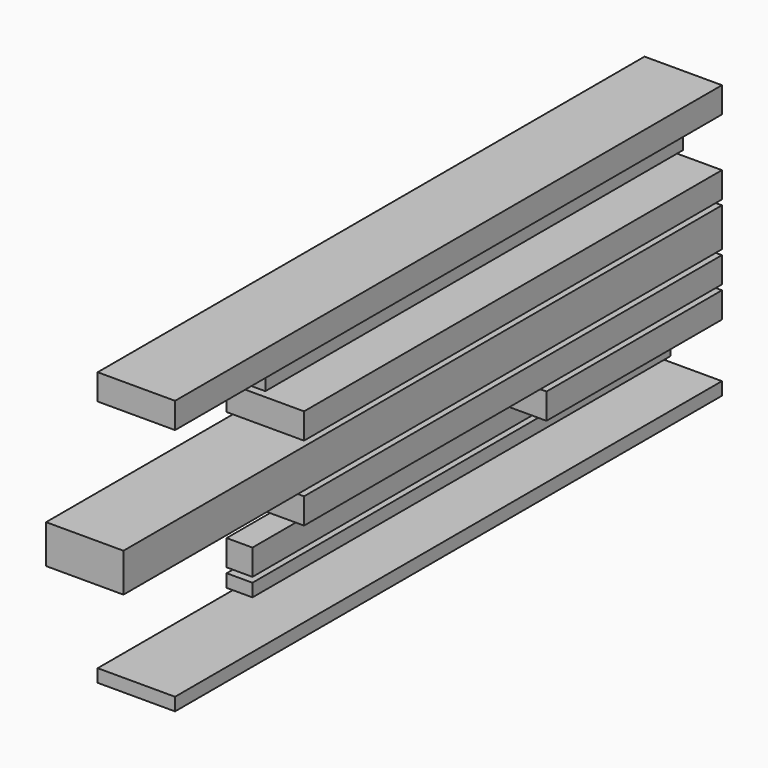
from build123d import *

# Parameters (mm, degrees)
F0_W      = 38.1
F0_H      = 19.05
F1_DEPTH  = 368.3
F2_W      = 38.1
F2_H      = 12.7
F3_DEPTH  = 257.175
F4_W      = 19.05
F4_H      = 19.05
F5_DEPTH  = 257.175
F6_W      = 38.1
F6_H      = 12.7
F7_DEPTH  = 336.55
F8_W      = 38.1
F8_H      = 12.7
F9_DEPTH  = 257.175
F10_W     = 38.1
F10_H     = 12.7
F11_DEPTH = 107.95
F12_W     = 12.7
F12_H     = 12.7
F13_DEPTH = 257.175
F14_W     = 12.7
F14_H     = 6.35
F15_DEPTH = 257.175
F16_W     = 38.1
F16_H     = 6.35
F17_DEPTH = 336.55


with BuildPart() as f1:
    # F0 (on Front) → F1 (new body)
    with BuildSketch(Plane.XZ):
        with Locations((19.05, 9.525)):
            Rectangle(F0_W, F0_H)
    extrude(amount=F1_DEPTH)


with BuildPart() as f3:
    # F2 (on Front) → F3 (new body)
    with BuildSketch(Plane.XZ):
        with Locations((19.05, 27.94)):
            Rectangle(F2_W, F2_H)
    extrude(amount=F3_DEPTH)


with BuildPart() as f5:
    # F4 (on Front) → F5 (new body)
    with BuildSketch(Plane.XZ):
        with Locations((9.525, 46.355)):
            Rectangle(F4_W, F4_H)
    extrude(amount=F5_DEPTH)


with BuildPart() as f7:
    # F6 (on Front) → F7 (new body)
    with BuildSketch(Plane.XZ):
        with Locations((19.05, 64.77)):
            Rectangle(F6_W, F6_H)
    extrude(amount=F7_DEPTH)


with BuildPart() as f9:
    # F8 (on Front) → F9 (new body)
    with BuildSketch(Plane.XZ):
        with Locations((19.05, -8.89)):
            Rectangle(F8_W, F8_H)
    extrude(amount=F9_DEPTH)


with BuildPart() as f11:
    # F10 (on Front) → F11 (new body)
    with BuildSketch(Plane.XZ):
        with Locations((19.05, -24.13)):
            Rectangle(F10_W, F10_H)
    extrude(amount=F11_DEPTH)


with BuildPart() as f13:
    # F12 (on Front) → F13 (new body)
    with BuildSketch(Plane.XZ):
        with Locations((6.35, -39.37)):
            Rectangle(F12_W, F12_H)
    extrude(amount=F13_DEPTH)


with BuildPart() as f15:
    # F14 (on Front) → F15 (new body)
    with BuildSketch(Plane.XZ):
        with Locations((6.35, -51.435)):
            Rectangle(F14_W, F14_H)
    extrude(amount=F15_DEPTH)


with BuildPart() as f17:
    # F16 (on Front) → F17 (new body)
    with BuildSketch(Plane.XZ):
        with Locations((19.05, -60.325)):
            Rectangle(F16_W, F16_H)
    extrude(amount=F17_DEPTH)


solid = Compound([f1.part, f3.part, f5.part, f7.part, f9.part, f11.part, f13.part, f15.part, f17.part])
